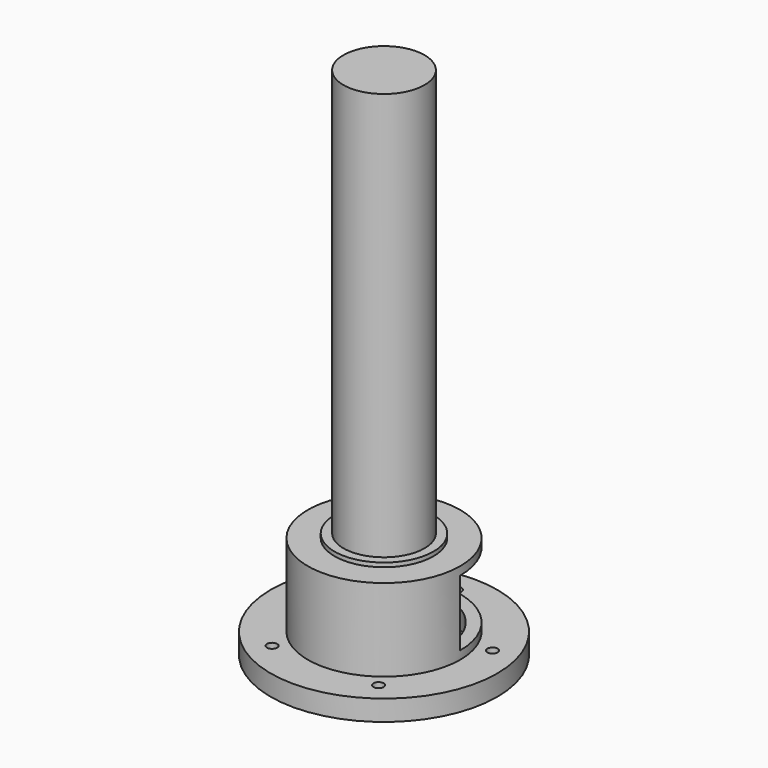
from build123d import *

# Parameters (mm, degrees)
F0_R      = 34.925
F0_R_2    = 1.5875
F1_DEPTH  = 6.35
F2_R      = 22.5
F3_DEPTH  = 3.175
F4_R      = 19.685
F5_DEPTH  = 3.176
F6_R      = 23.495
F6_R_2    = 19.685
F7_DEPTH  = 19.05
F8_R      = 23.495
F9_DEPTH  = 6.35
F10_R     = 12.5
F11_DEPTH = 127
F12_R     = 15.24
F13_DEPTH = 1.27
F14_W     = 46.99
F14_H     = 20.32
F15_DEPTH = 25.4


with BuildPart() as f1:
    # F0 (on Top) → F1 (new body)
    with BuildSketch(Plane.XY):
        Circle(F0_R)
        with Locations((-16.42272, -22.603935)):
            Circle(F0_R_2, mode=Mode.SUBTRACT)
        with Locations((16.42272, -22.603935)):
            Circle(F0_R_2, mode=Mode.SUBTRACT)
        with Locations((-26.572519, 8.633935)):
            Circle(F0_R_2, mode=Mode.SUBTRACT)
        with Locations((26.572519, 8.633935)):
            Circle(F0_R_2, mode=Mode.SUBTRACT)
        with Locations((0, 27.94)):
            Circle(F0_R_2, mode=Mode.SUBTRACT)
    extrude(amount=F1_DEPTH)

    # F2 (on face) → F3 (cut)
    with BuildSketch(Plane(origin=(0, 0, 0), x_dir=(1, 0, 0), z_dir=(0, 0, -1))):
        Circle(F2_R)
    extrude(amount=-F3_DEPTH, mode=Mode.SUBTRACT)

    # F4 (on face) → F5 (cut, through all)
    with BuildSketch(Plane(origin=(0, 0, 3.175), x_dir=(1, 0, 0), z_dir=(0, 0, -1))):
        Circle(F4_R)
    extrude(amount=-F5_DEPTH, mode=Mode.SUBTRACT)

    # F6 (on face) → F7 (join)
    with BuildSketch(Plane.XY.offset(6.35)):
        Circle(F6_R)
        Circle(F6_R_2, mode=Mode.SUBTRACT)
    extrude(amount=F7_DEPTH)

    # F8 (on face) → F9 (join)
    with BuildSketch(Plane.XY.offset(25.4)):
        Circle(F8_R)
    extrude(amount=F9_DEPTH)

    # F10 (on face) → F11 (join)
    with BuildSketch(Plane.XY.offset(31.75)):
        Circle(F10_R)
    extrude(amount=F11_DEPTH)

    # F12 (on face) → F13 (join)
    with BuildSketch(Plane.XY.offset(31.75)):
        Circle(F12_R)
    extrude(amount=F13_DEPTH)

    # F14 (on Front) → F15 (cut)
    with BuildSketch(Plane.XZ):
        with Locations((0, 19.05)):
            Rectangle(F14_W, F14_H)
    extrude(amount=-F15_DEPTH, mode=Mode.SUBTRACT)


solid = f1.part
